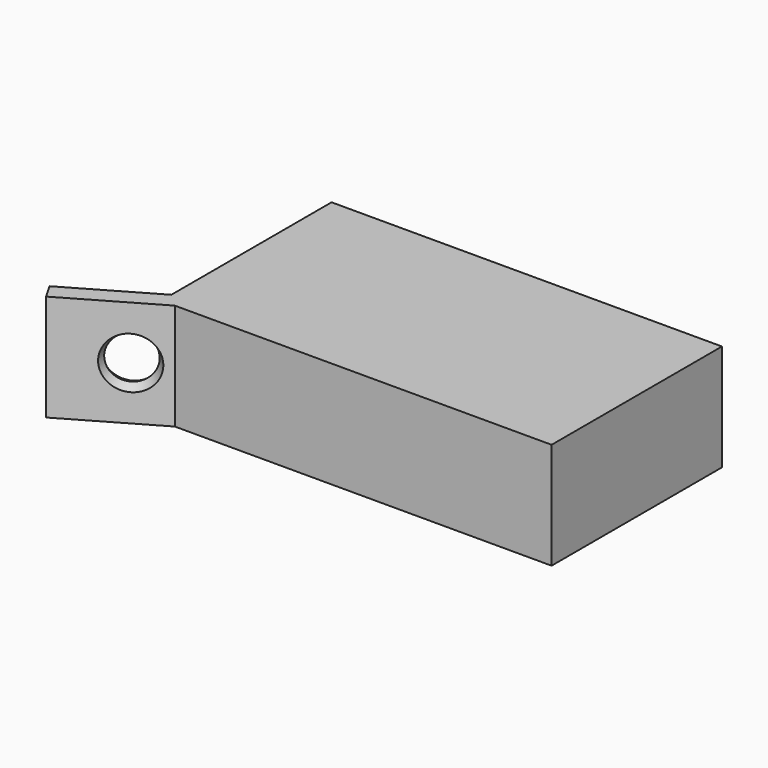
from build123d import *

# Parameters (mm, degrees)
SKETCH001_W  = 44
SKETCH001_H  = 24
PAD_DEPTH    = 12
BOX_W        = 12
BOX_H        = 2
BOX_DEPTH    = 12
BOX001_W     = 40.2
BOX001_H     = 20.2
BOX001_DEPTH = 10


with BuildPart() as part:
    # Sketch001 → Pad (new body)
    with BuildSketch(Plane.XY):
        with Locations((20, 10)):
            Rectangle(SKETCH001_W, SKETCH001_H)
    extrude(amount=PAD_DEPTH)

    # Box → Box (join)
    with BuildSketch(Plane(origin=(-1, 0, 0), x_dir=(-0.866025, -0.5, 0), z_dir=(0, 0, 1))):
        with Locations((6, 1)):
            Rectangle(BOX_W, BOX_H)
    extrude(amount=BOX_DEPTH)

    # Box001 → Box001 (cut)
    with BuildSketch(Plane(origin=(-0.1, -0.1, 0), x_dir=(1, 0, 0), z_dir=(0, 0, 1))):
        with Locations((20.1, 10.1)):
            Rectangle(BOX001_W, BOX001_H)
    extrude(amount=BOX001_DEPTH, mode=Mode.SUBTRACT)

    # Cone → Cone (revolve, cut)
    with BuildSketch(Plane(origin=(-5, -2, 6), x_dir=(0.866025, 0.5, 0), z_dir=(0, 0, -1))):
        Polygon((0, 0), (2, 0), (3, 2.5), (0, 2.5), align=None)
    revolve(axis=Axis((-5, -2, 6), (0.5, -0.866025, 0)), mode=Mode.SUBTRACT)

    # Cone001 → Cone001 (revolve, cut)
    with BuildSketch(Plane(origin=(-4, -4, 6), x_dir=(-0.866025, -0.5, 0), z_dir=(0, 0, -1))):
        Polygon((0, 0), (2, 0), (3, 2.5), (0, 2.5), align=None)
    revolve(axis=Axis((-4, -4, 6), (-0.5, 0.866025, 0)), mode=Mode.SUBTRACT)


solid = part.part
